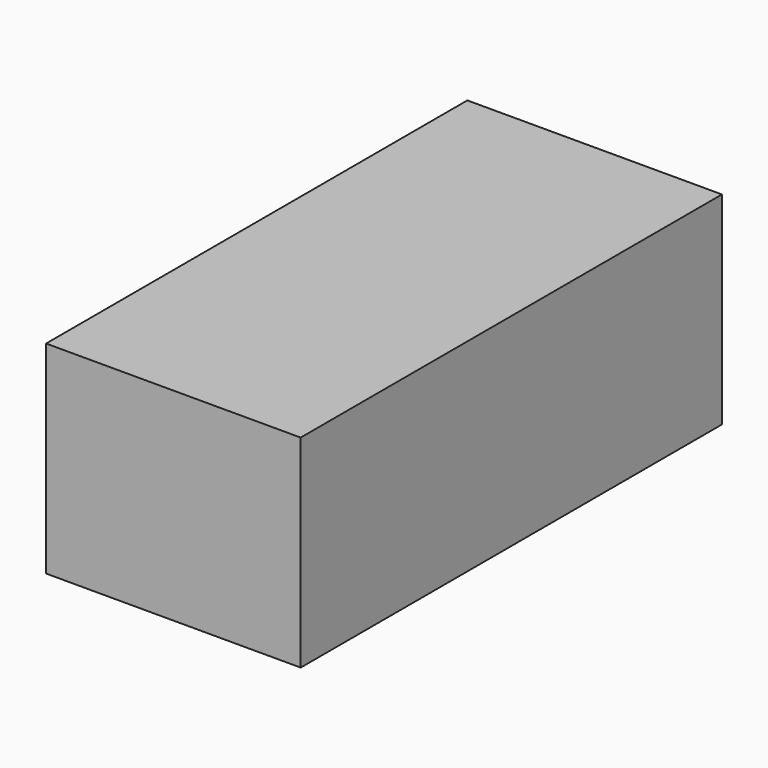
from build123d import *

# Parameters (mm, degrees)
F0_W     = 1155.7
F0_H     = 444.5
F1_DEPTH = 558.8
F2_W     = 711.2
F2_H     = 342.9
F3_DEPTH = 393.7
F5_DEPTH = 165.1


with BuildPart() as f1:
    # F0 (on Right) → F1 (new body)
    with BuildSketch(Plane.YZ):
        with Locations((-577.85, 222.25)):
            Rectangle(F0_W, F0_H)
    extrude(amount=F1_DEPTH)


with BuildPart() as f3:
    # F2 (on Right) → F3 (new body)
    with BuildSketch(Plane.YZ):
        with Locations((-355.6, 171.45)):
            Rectangle(F2_W, F2_H)
    extrude(amount=F3_DEPTH)


with BuildPart() as f5:
    # F4 (on Right) → F5 (new body)
    with BuildSketch(Plane.YZ):
        Polygon((-234.95, 0), (0, 0), (0, 254), (-210.82178, 254), (-344.17178, 336.55), (-368.3, 336.55), (-368.3, 321.613483), (-234.95, 239.063483), align=None)
    extrude(amount=F5_DEPTH)


solid = Compound([f1.part, f3.part, f5.part])
